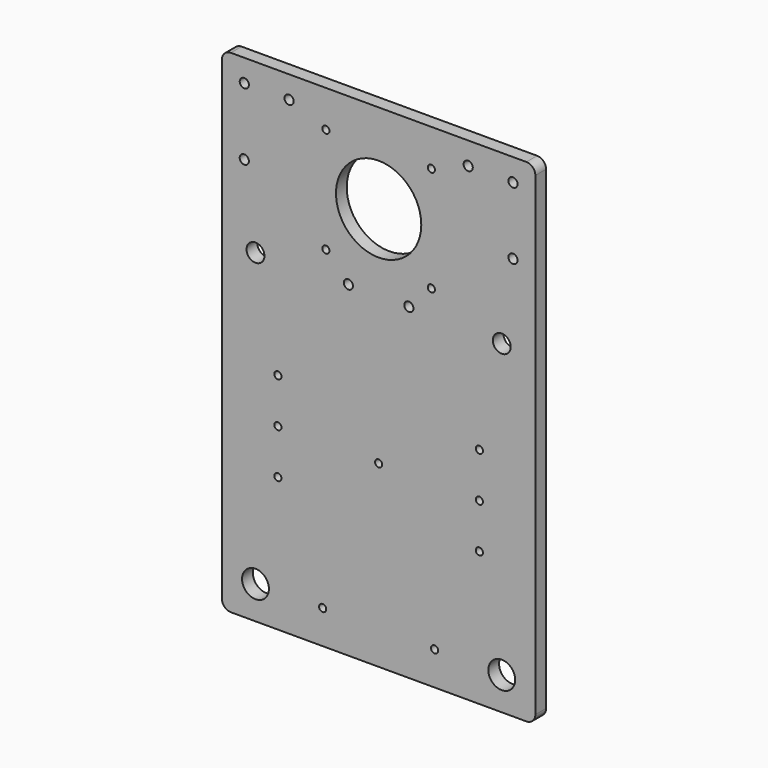
from build123d import *

# Parameters (mm, degrees)
F0_W     = 140
F0_H     = 220
F1_DEPTH = 6
F3_D     = 4.1
F4_D     = 3.2
F2_R     = 19.05
F2_R_2   = 4
F2_R_3   = 6
F5_DEPTH = 6.001
F6_R     = 4
F8_D     = 3.2
F9_D     = 4.1


with BuildPart() as f1:
    # F0 (on Front) → F1 (new body)
    with BuildSketch(Plane.XZ):
        with Locations((0, 30)):
            Rectangle(F0_W, F0_H)
    extrude(amount=F1_DEPTH)

    # F3 (through all)
    with Locations(Plane.XZ.offset(6)):
        with Locations((-13.5, 66), (13.5, 66)):
            Hole(F3_D / 2)

    # F4 (through all)
    with Locations(Plane.XZ.offset(6)):
        with Locations((-23.55, 123.55), (23.55, 123.55), (23.55, 76.45), (-23.55, 76.45)):
            Hole(F4_D / 2)

    # F2 (on face) → F5 (cut, through all)
    with BuildSketch(Plane.XZ.offset(6)):
        with Locations((0, 100)):
            Circle(F2_R)
        with Locations((-55, 65)):
            Circle(F2_R_2)
        with Locations((55, 65)):
            Circle(F2_R_2)
        with Locations((-55, -65.3)):
            Circle(F2_R_3)
        with Locations((55, -65.3)):
            Circle(F2_R_3)
    extrude(amount=-F5_DEPTH, mode=Mode.SUBTRACT)

    # F6
    f6_edges = [f1.edges().sort_by_distance(p)[0] for p in [
        (70, -3, 140),
        (-70, -3, 140),
        (-70, -3, -80),
        (70, -3, -80),
    ]]
    fillet(f6_edges, radius=F6_R)

    # F8 (through all)
    with Locations(Plane.XZ.offset(6)):
        with Locations((-45, 20), (-45, 0), (-45, -20), (-25, -65), (25, -65), (45, -20), (45, 0), (45, 20), (0, 0)):
            Hole(F8_D / 2)

    # F9 (through all)
    with Locations(Plane.XZ.offset(6)):
        with Locations((-60, 130), (-60, 100), (60, 130), (60, 100), (-40, 130), (40, 130)):
            Hole(F9_D / 2)


solid = f1.part
